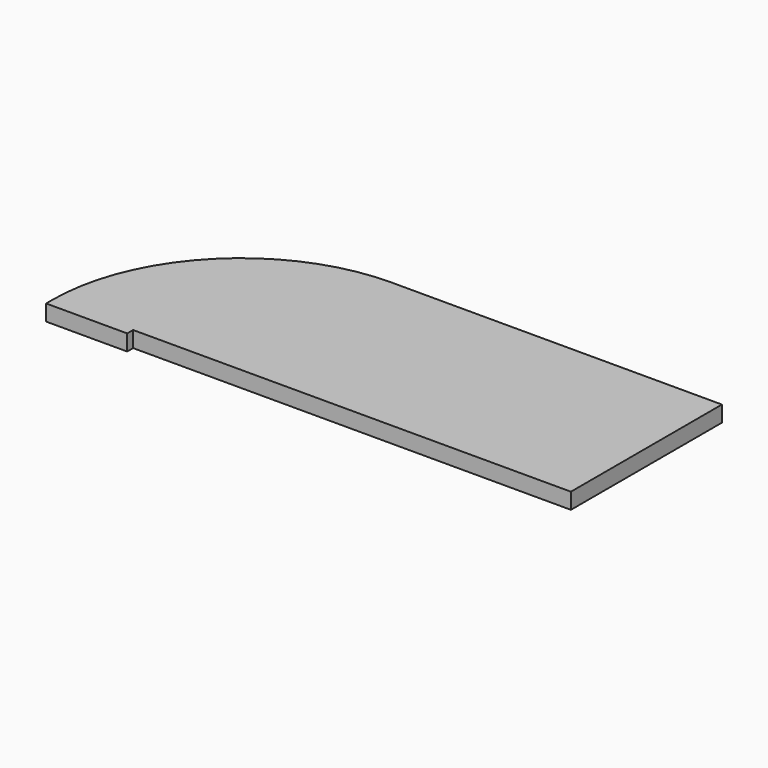
from build123d import *

# Parameters (mm, degrees)
PAD_DEPTH = 10


with BuildPart() as part:
    # Sketch → Pad (new body)
    with BuildSketch(Plane.XY):
        with BuildLine():
            Line((223.32465, 0), (223.32465, 118.216441))
            Line((16.616441, 118.216441), (223.32465, 118.216441))
            ThreePointArc((16.616441, 118.216441), (-66.975206, 83.591647), (-101.6, 0))
            Line((-101.6, 0), (-101.6, -4.642585))
            Line((-101.6, -4.642585), (-50.8, -4.642585))
            Line((-50.8, -4.642585), (-50.8, 0))
            Line((223.32465, 0), (-50.8, 0))
        make_face()
    extrude(amount=PAD_DEPTH)


solid = part.part
